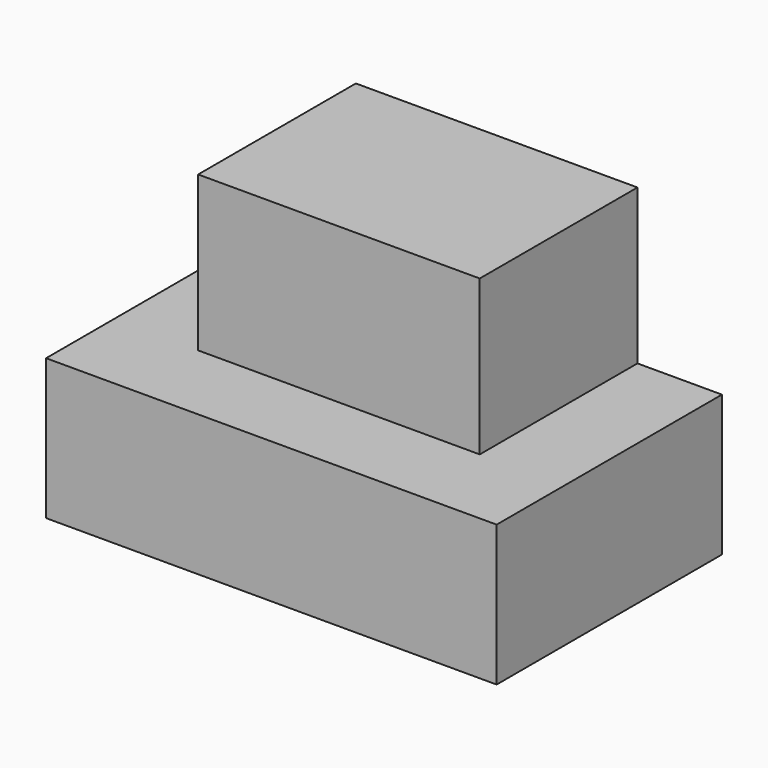
from build123d import *

# Parameters (mm, degrees)
SKETCH_W     = 6.4
SKETCH_H     = 4
PAD_DEPTH    = 2
SKETCH001_W  = 4
SKETCH001_H  = 2.8
PAD001_DEPTH = 2.2


with BuildPart() as part:
    # Sketch → Pad (new body)
    with BuildSketch(Plane.XY):
        Rectangle(SKETCH_W, SKETCH_H)
    extrude(amount=PAD_DEPTH)

    # Sketch001 (on DatumPlane) → Pad001 (join)
    with BuildSketch(Plane.XY.offset(2)):
        with Locations((0, 0.6)):
            Rectangle(SKETCH001_W, SKETCH001_H)
    extrude(amount=PAD001_DEPTH)


solid = part.part
